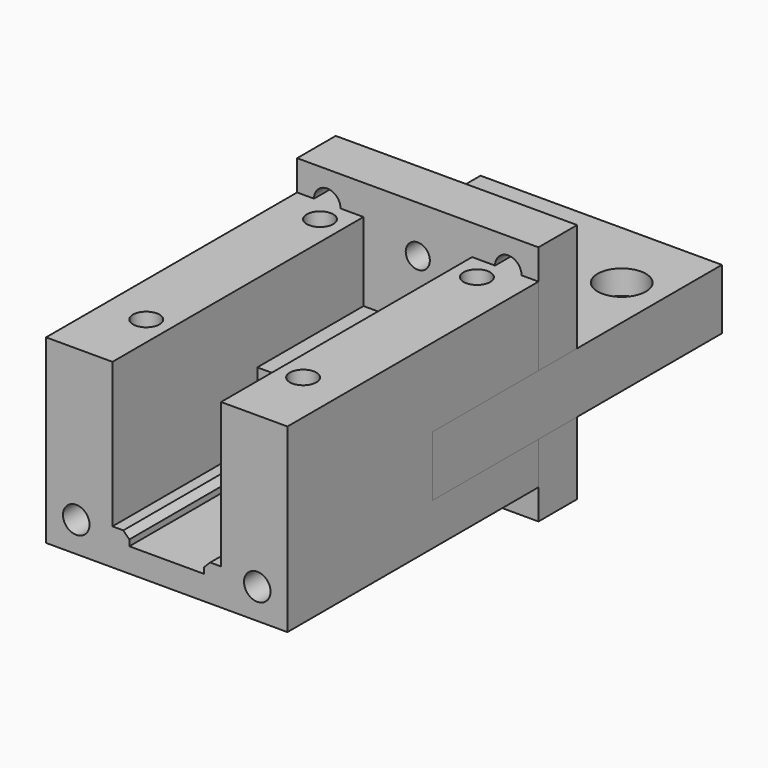
from build123d import *

# Parameters (mm, degrees)
F3_DEPTH         = 30
F2_W             = 20
F2_H             = 20
F4_DEPTH         = 4
F5_D             = 2.2
F5_DEPTH         = 5.4
F5_TIP           = 0.6609466809
F6_D             = 2
F6_DEPTH         = 6.3
F6_TIP           = 0.600860619
F7_D             = 4.2
F7_DEPTH         = 5.4
F7_TIP           = 1.2618073
F8_DEPTH         = 15
F9_R             = 5
F10_DEPTH        = 25
F11_D            = 2.2
F11_DEPTH        = 5.4
F11_CBORE_D      = 4
F11_CBORE_DEPTH  = 2
F11_TIP          = 0.6609466809
F16_D            = 2.2
F16_DEPTH        = 5.4
F16_TIP          = 0.6609466809
F16_ON_F14_D     = 2.2
F16_ON_F14_DEPTH = 5.4
F16_ON_F14_TIP   = 0.6609466809
F17_D            = 2.2
F17_DEPTH        = 3
F17_TIP          = 0.6609466809
F17_ON_F15_D     = 2.2
F17_ON_F15_DEPTH = 3
F17_ON_F15_TIP   = 0.6609466809
F20_D            = 2.2
F20_DEPTH        = 4
F20_TIP          = 0.6609466809
F20_ON_F19_D     = 2.2
F20_ON_F19_DEPTH = 4
F20_ON_F19_TIP   = 0.6609466809
F21_D            = 3.3
F21_DEPTH        = 6
F21_TIP          = 0.9914200214
F22_SIZE         = 0.5
F22_2_SIZE       = 0.5


with BuildPart() as f3:
    # F0 (on Front) → F3 (new body)
    with BuildSketch(Plane.XZ):
        Polygon((-10, -7.5), (10, -7.5), (10, 7.5), (4.5, 7.5), (4.5, -4.5), (3.1, -4.5), (3.1, -5.5), (-3.1, -5.5), (-3.1, -4.5), (-4.5, -4.5), (-4.5, 7.5), (-10, 7.5), align=None)
    extrude(amount=F3_DEPTH)

    # F16
    with Locations(Plane.XZ.offset(30)):
        with Locations((-7.5, -5), (7.5, -5)):
            Hole(F16_D / 2, depth=F16_DEPTH)
            with Locations((0, 0, -(F16_DEPTH + F16_TIP / 2))):  # 118° drill point
                Cone(0, F16_D / 2, F16_TIP, mode=Mode.SUBTRACT)

    # F16 on F14
    with Locations(Plane(origin=(0, 0, 0), x_dir=(-1, 0, 0), z_dir=(0, 1, 0))):
        with Locations((-7.5, -5), (7.5, -5)):
            Hole(F16_ON_F14_D / 2, depth=F16_ON_F14_DEPTH)
            with Locations((0, 0, -(F16_ON_F14_DEPTH + F16_ON_F14_TIP / 2))):  # 118° drill point
                Cone(0, F16_ON_F14_D / 2, F16_ON_F14_TIP, mode=Mode.SUBTRACT)

    # F20
    with Locations(Plane.XY.offset(7.5)):
        with Locations((-6.5, -6), (-6.5, -24)):
            Hole(F20_D / 2, depth=F20_DEPTH)
            with Locations((0, 0, -(F20_DEPTH + F20_TIP / 2))):  # 118° drill point
                Cone(0, F20_D / 2, F20_TIP, mode=Mode.SUBTRACT)

    # F20 on F19
    with Locations(Plane.XY.offset(7.5)):
        with Locations((6.5, -6), (6.5, -24)):
            Hole(F20_ON_F19_D / 2, depth=F20_ON_F19_DEPTH)
            with Locations((0, 0, -(F20_ON_F19_DEPTH + F20_ON_F19_TIP / 2))):  # 118° drill point
                Cone(0, F20_ON_F19_D / 2, F20_ON_F19_TIP, mode=Mode.SUBTRACT)

    # F22#2
    f22_2_edges = [f3.edges().sort_by_distance(p)[0] for p in [
        (-3.1, -15, -4.5),
        (3.1, -15, -4.5),
    ]]
    chamfer(f22_2_edges, length=F22_2_SIZE)


with BuildPart() as f4:
    # F2 (on Front) → F4 (new body)
    with BuildSketch(Plane.XZ):
        Rectangle(F2_W, F2_H)
    extrude(amount=F4_DEPTH)

    # F5
    with Locations(Plane(origin=(0, 0, 0), x_dir=(1, 0, 0), z_dir=(0, 1, 0))):
        with Locations((-7.5, -7.5), (7.5, -7.5), (-7.5, 7.5), (7.5, 7.5)):
            Hole(F5_D / 2, depth=F5_DEPTH)
            with Locations((0, 0, -(F5_DEPTH + F5_TIP / 2))):  # 118° drill point
                Cone(0, F5_D / 2, F5_TIP, mode=Mode.SUBTRACT)

    # F6
    with Locations(Plane(origin=(0, 0, 0), x_dir=(1, 0, 0), z_dir=(0, 1, 0))):
        with Locations((0, -6.11), (0, 6.11)):
            Hole(F6_D / 2, depth=F6_DEPTH)
            with Locations((0, 0, -(F6_DEPTH + F6_TIP / 2))):  # 118° drill point
                Cone(0, F6_D / 2, F6_TIP, mode=Mode.SUBTRACT)

    # F7
    with Locations(Plane(origin=(0, 0, 0), x_dir=(1, 0, 0), z_dir=(0, 1, 0))):
        with Locations((0, 0)):
            Hole(F7_D / 2, depth=F7_DEPTH)
            with Locations((0, 0, -(F7_DEPTH + F7_TIP / 2))):  # 118° drill point
                Cone(0, F7_D / 2, F7_TIP, mode=Mode.SUBTRACT)


with BuildPart() as f8:
    # F1 (on Front) → F8 (new body, symmetric)
    with BuildSketch(Plane.XZ):
        Polygon((10, -1), (10, 1), (-10, 1), (-10, -3), (-10, -4), (-4.5, -4), (-4.5, -2), (-3.1, -2), (-3.1, -1.029932369), (3.1, -1.029932369), (3.1, -2), (4.5, -2), (4.5, -4), (10, -4), (10, -3), align=None)
        Polygon((3.1448985535, -1.029932369), (3.1, -1.029932369), (3.1, -1), align=None, mode=Mode.SUBTRACT)
        Polygon((3.1, -1), (3.1, -1.029932369), (3.1448985535, -1.029932369), align=None)
    extrude(amount=F8_DEPTH, both=True)

    # F9 (on face) → F10 (cut)
    with BuildSketch(Plane.XY.offset(1)):
        Circle(F9_R)
    extrude(amount=-F10_DEPTH, mode=Mode.SUBTRACT)

    # F11
    with Locations(Plane.XY.offset(1)):
        with Locations((-6.5, -9), (-6.5, 9), (6.5, 9), (6.5, -9)):
            CounterBoreHole(F11_D / 2, F11_CBORE_D / 2, F11_CBORE_DEPTH, depth=F11_DEPTH)
            with Locations((0, 0, -(F11_DEPTH + F11_TIP / 2))):  # 118° drill point
                Cone(0, F11_D / 2, F11_TIP, mode=Mode.SUBTRACT)

    # F17
    with Locations(Plane.XZ.offset(15)):
        with Locations((7.5, -1.5), (-7.5, -1.5)):
            Hole(F17_D / 2, depth=F17_DEPTH)
            with Locations((0, 0, -(F17_DEPTH + F17_TIP / 2))):  # 118° drill point
                Cone(0, F17_D / 2, F17_TIP, mode=Mode.SUBTRACT)

    # F17 on F15
    with Locations(Plane(origin=(0, 15, 0), x_dir=(-1, 0, 0), z_dir=(0, 1, 0))):
        with Locations((-7.5, -1.5), (7.5, -1.5)):
            Hole(F17_ON_F15_D / 2, depth=F17_ON_F15_DEPTH)
            with Locations((0, 0, -(F17_ON_F15_DEPTH + F17_ON_F15_TIP / 2))):  # 118° drill point
                Cone(0, F17_ON_F15_D / 2, F17_ON_F15_TIP, mode=Mode.SUBTRACT)

    # F21
    with Locations(Plane.XY.offset(1)):
        with Locations((-7.5, 0), (7.5, 0)):
            Hole(F21_D / 2, depth=F21_DEPTH)
            with Locations((0, 0, -(F21_DEPTH + F21_TIP / 2))):  # 118° drill point
                Cone(0, F21_D / 2, F21_TIP, mode=Mode.SUBTRACT)

    # F22
    f22_edges = [f8.edges().sort_by_distance(p)[0] for p in [
        (-3.1, 9.461505, -2),
        (3.1, 9.461505, -2),
        (3.1, -9.461505, -2),
        (-3.1, -9.461505, -2),
    ]]
    chamfer(f22_edges, length=F22_SIZE)


solid = Compound([f3.part, f4.part, f8.part])
